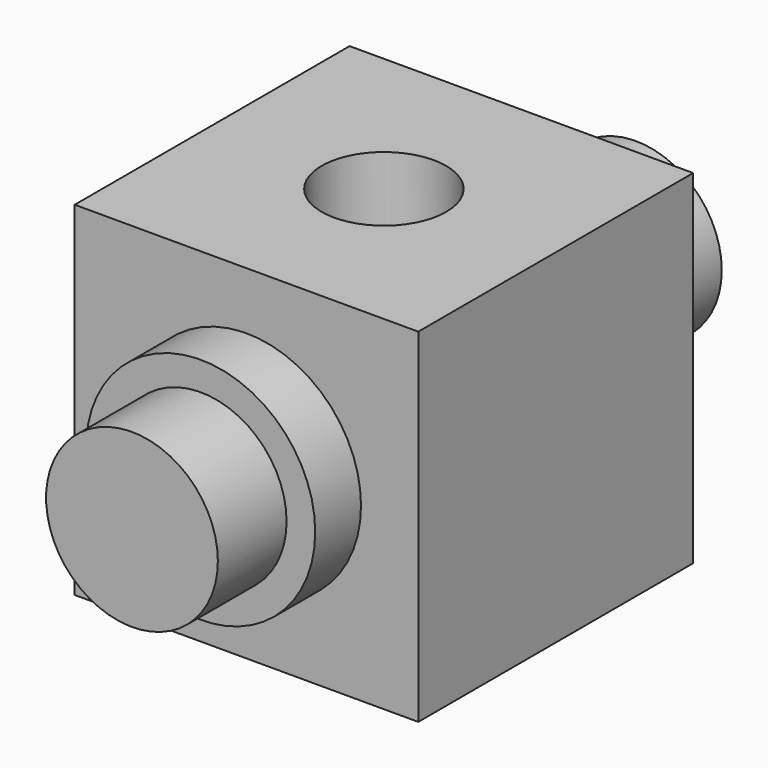
from build123d import *

# Parameters (mm, degrees)
F0_W     = 9.525
F0_H     = 9.525
F1_DEPTH = 9.525
F2_R     = 3.175
F3_DEPTH = 6.35
F4_R     = 2.38125
F5_DEPTH = 8.73125
F6_R     = 1.7272
F7_DEPTH = 9.525
F8_R     = 3.175
F9_DEPTH = 6.35


with BuildPart() as f1:
    # F0 (on Top) → F1 (new body)
    with BuildSketch(Plane.XY):
        Rectangle(F0_W, F0_H)
    extrude(amount=F1_DEPTH)

    # F2 (on Front) → F3 (join, symmetric)
    with BuildSketch(Plane.XZ):
        with Locations((0, 4.7625)):
            Circle(F2_R)
    extrude(amount=F3_DEPTH, both=True)

    # F4 (on Front) → F5 (join, symmetric)
    with BuildSketch(Plane.XZ):
        with Locations((0, 4.7625)):
            Circle(F4_R)
    extrude(amount=F5_DEPTH, both=True)

    # F6 (on face) → F7 (cut, through all)
    with BuildSketch(Plane(origin=(0, 0, 0), x_dir=(1, 0, 0), z_dir=(0, 0, -1))):
        Circle(F6_R)
    extrude(amount=-F7_DEPTH, mode=Mode.SUBTRACT)

    # F8 (on face) → F9 (cut)
    with BuildSketch(Plane(origin=(0, 0, 0), x_dir=(1, 0, 0), z_dir=(0, 0, -1))):
        Circle(F8_R)
    extrude(amount=-F9_DEPTH, mode=Mode.SUBTRACT)


solid = f1.part
